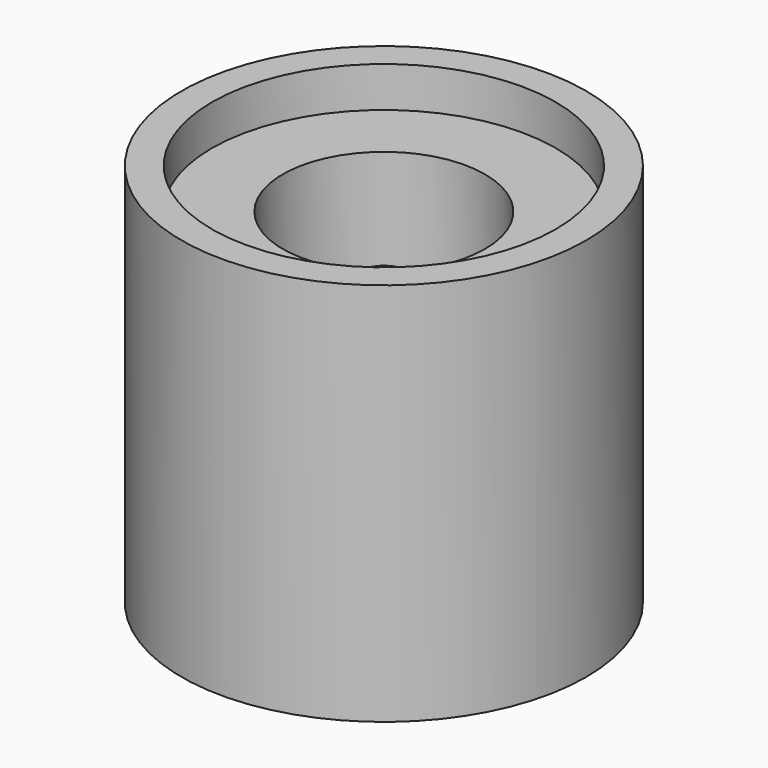
from build123d import *

# Parameters (mm, degrees)
F0_R     = 20
F0_R_2   = 10
F0_R_3   = 2.5
F1_DEPTH = 38
F2_DEPTH = 20
F3_R     = 10
F3_R_2   = 2.5
F4_DEPTH = 14
F3_R_3   = 17
F5_DEPTH = 4
F6_DEPTH = 8
F7_DEPTH = 28


with BuildPart() as f1:
    # F0 (on Top) → F1 (new body)
    with BuildSketch(Plane.XY):
        Circle(F0_R)
        Circle(F0_R_2, mode=Mode.SUBTRACT)
        Circle(F0_R_2)
        Circle(F0_R_3, mode=Mode.SUBTRACT)
    extrude(amount=F1_DEPTH)

    # F0 (on Top) → F2 (cut)
    with BuildSketch(Plane.XY):
        Circle(F0_R_2)
        Circle(F0_R_3, mode=Mode.SUBTRACT)
    extrude(amount=F2_DEPTH, mode=Mode.SUBTRACT)

    # F3 (on face) → F4 (cut)
    with BuildSketch(Plane.XY.offset(38)):
        Circle(F3_R)
        Circle(F3_R_2, mode=Mode.SUBTRACT)
    extrude(amount=-F4_DEPTH, mode=Mode.SUBTRACT)

    # F3 (on face) → F5 (cut)
    with BuildSketch(Plane.XY.offset(38)):
        Circle(F3_R_3)
        Circle(F3_R, mode=Mode.SUBTRACT)
    extrude(amount=-F5_DEPTH, mode=Mode.SUBTRACT)


with BuildPart() as f6:
    # F0 (on Top) → F6 (new body)
    with BuildSketch(Plane.XY):
        Circle(F0_R_2)
        Circle(F0_R_3, mode=Mode.SUBTRACT)
    extrude(amount=F6_DEPTH)

    # F0 (on Top) → F7 (join)
    with BuildSketch(Plane.XY):
        Circle(F0_R_3)
    extrude(amount=F7_DEPTH)


solid = Compound([f1.part, f6.part])
